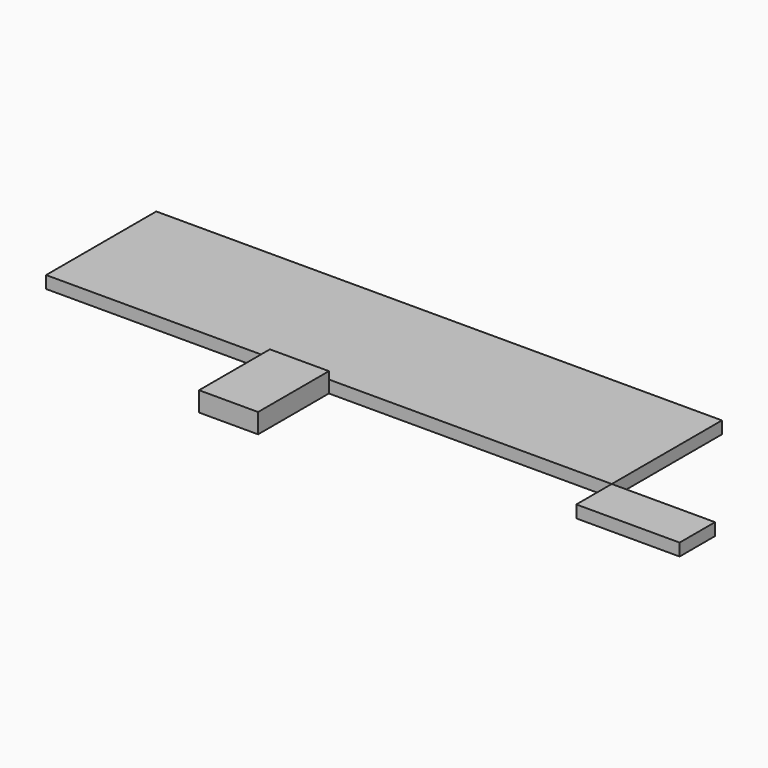
from build123d import *

# Parameters (mm, degrees)
F0_W          = 5842
F0_H          = 1422.4
F1_DEPTH      = 127
F2_W          = 609.6
F2_H          = 914.4
F3_DEPTH      = 127
F3_DEPTH_BACK = 76.2
F4_W          = 1066.8
F4_H          = 457.2
F5_DEPTH      = 127


with BuildPart() as f1:
    # F0 (on Top) → F1 (new body)
    with BuildSketch(Plane.XY):
        with Locations((2921, 711.2)):
            Rectangle(F0_W, F0_H)
    extrude(amount=F1_DEPTH)


with BuildPart() as f3:
    # F2 (on face) → F3 (new body, two sides)
    with BuildSketch(Plane.XY.offset(127)) as f3_sk:
        with Locations((2616.2, -457.2)):
            Rectangle(F2_W, F2_H)
    extrude(amount=-F3_DEPTH)
    extrude(f3_sk.sketch, amount=F3_DEPTH_BACK)


with BuildPart() as f5:
    # F4 (on face) → F5 (new body)
    with BuildSketch(Plane.XY.offset(127)):
        with Locations((6375.4, -228.6)):
            Rectangle(F4_W, F4_H)
    extrude(amount=-F5_DEPTH)


solid = Compound([f1.part, f3.part, f5.part])
